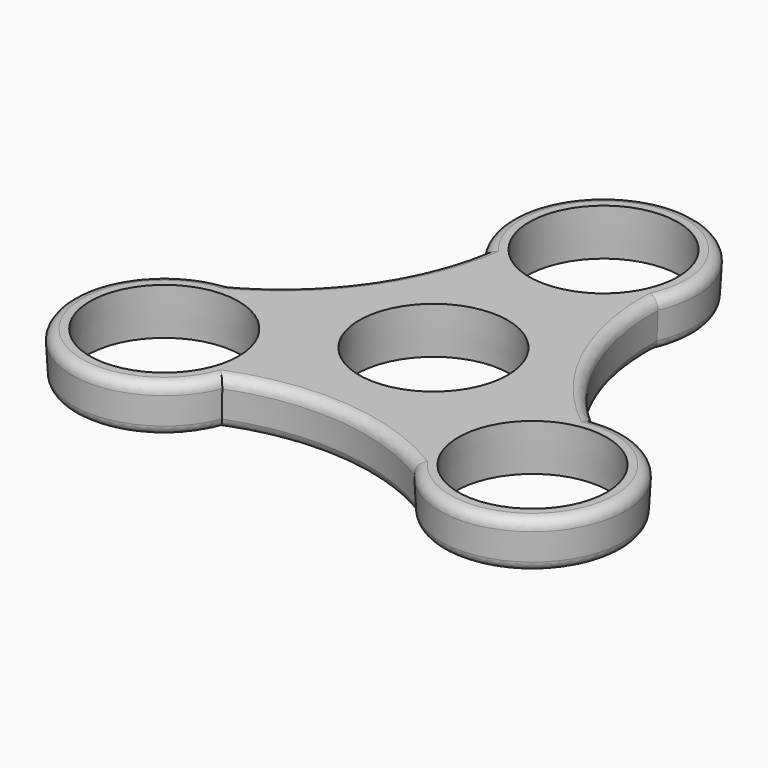
from build123d import *

# Parameters (mm, degrees)
F0_R     = 11.2
F1_DEPTH = 7
F1_TAPER = -3
F2_R     = 1.5
F3_R     = 1.5


with BuildPart() as f1:
    # F0 (on Top) → F1 (new body)
    with BuildSketch(Plane.XY):
        with BuildLine():
            ThreePointArc((24.8960555458, -2.4516046146), (15.1893990848, 10.0773298019), (12.0452893607, 25.6114197754))
            ThreePointArc((12.0452893607, 25.6114197754), (-1.6538177527, 44.1065742012), (-10.3248758966, 22.786418864))
            ThreePointArc((-10.3248758966, 22.786418864), (-16.3219231531, 8.1157405747), (-28.2027848328, -2.3741833054))
            ThreePointArc((-28.2027848328, -2.3741833054), (-37.3705048558, -23.4855352877), (-14.5711796492, -20.3348142494))
            ThreePointArc((-14.5711796492, -20.3348142494), (1.1325240683, -18.1930703766), (16.1574954722, -23.23723647))
            ThreePointArc((16.1574954722, -23.23723647), (39.0243226085, -20.6210389135), (24.8960555458, -2.4516046146))
        make_face()
        with Locations((-26.8559559277, -15.5052933842)):
            Circle(F0_R, mode=Mode.SUBTRACT)
        with Locations((26.8559559277, -15.5052933842)):
            Circle(F0_R, mode=Mode.SUBTRACT)
        Circle(F0_R, mode=Mode.SUBTRACT)
        with Locations((0, 31.0105867684)):
            Circle(F0_R, mode=Mode.SUBTRACT)
    extrude(amount=F1_DEPTH, taper=F1_TAPER)

    # F2
    f2_edges = [f1.edges().sort_by_distance(p)[0] for p in [
        (-16.646526, 8.292315, 7),
        (-37.689826, -23.671492, 7),
        (1.141907, -18.562472, 7),
        (39.345027, -20.8046, 7),
        (-1.655201, 44.476093, 7),
        (15.504619, 10.270157, 7),
    ]]
    fillet(f2_edges, radius=F2_R)

    # F3
    f3_edges = [f1.edges().sort_by_distance(p)[0] for p in [
        (1.132524, -18.19307, 0),
        (-37.370505, -23.485535, 0),
        (-16.321923, 8.115741, 0),
        (-1.653818, 44.106574, 0),
        (15.189399, 10.07733, 0),
        (39.024323, -20.621039, 0),
    ]]
    fillet(f3_edges, radius=F3_R)


solid = f1.part
